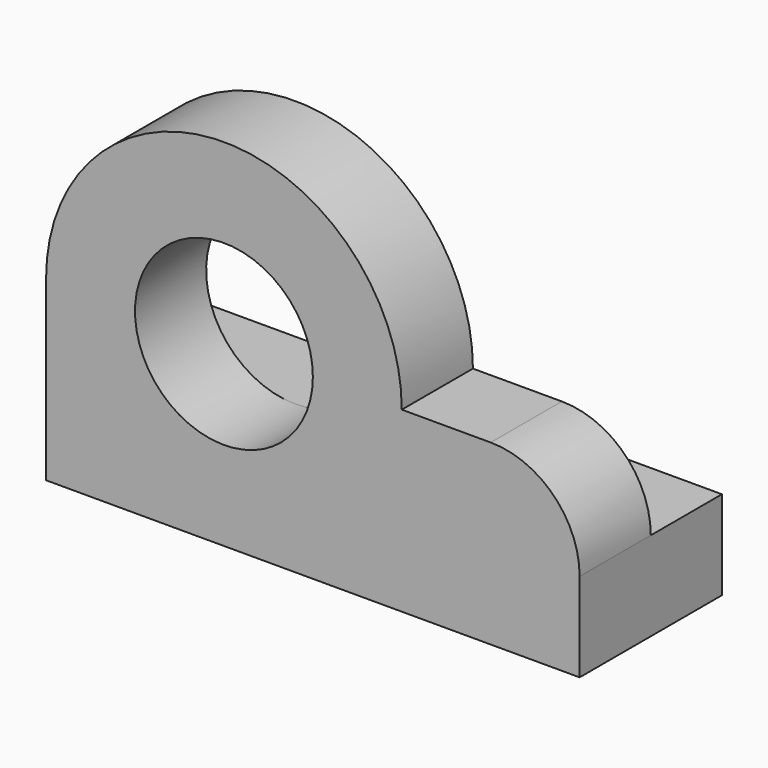
from build123d import *

# Parameters (mm, degrees)
F0_R     = 10
F1_DEPTH = 10
F3_DEPTH = 10


with BuildPart() as f1:
    # F0 (on Front) → F1 (new body)
    with BuildSketch(Plane.XZ):
        with BuildLine():
            Line((0, 20), (0, 0))
            Line((0, 0), (20, 0))
            Line((20, 0), (60, 0))
            Line((60, 0), (60, 10))
            ThreePointArc((60, 10), (57.071068, 17.071068), (50, 20))
            Line((50, 20), (40, 20))
            ThreePointArc((40, 20), (20, 40), (0, 20))
        make_face()
        with Locations((20, 20)):
            Circle(F0_R, mode=Mode.SUBTRACT)
    extrude(amount=-F1_DEPTH)

    # F2 (on face) → F3 (join)
    with BuildSketch(Plane(origin=(0, 10, 0), x_dir=(-1, 0, 0), z_dir=(0, 1, 0))):
        Polygon((-60, 0), (0, 0), (0, 10), (-20, 10), (-60, 10), align=None)
    extrude(amount=F3_DEPTH)


solid = f1.part
